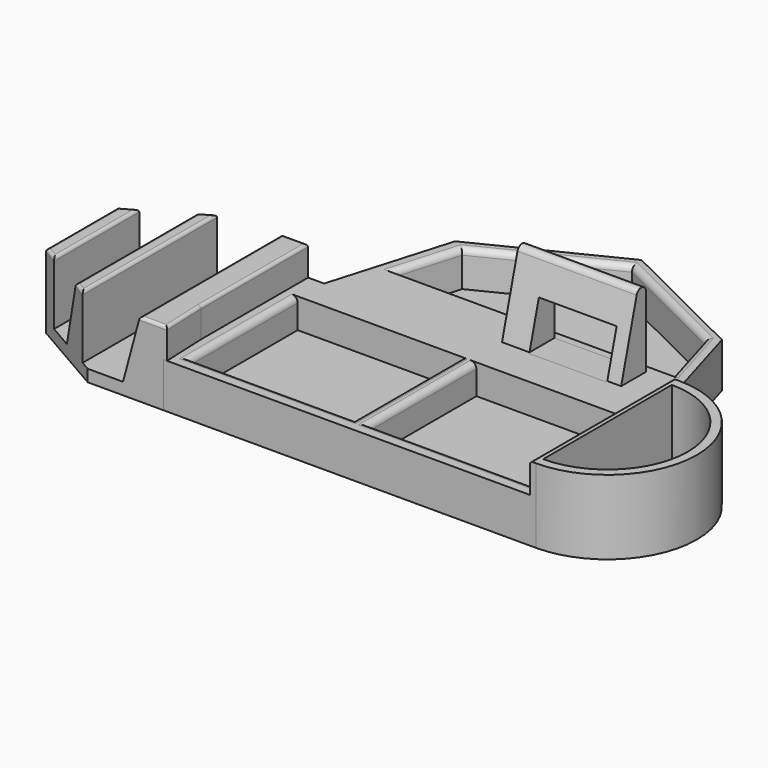
from build123d import *

# Parameters (mm, degrees)
SKETCH008_W     = 125
SKETCH008_H     = 60
PAD007_DEPTH    = 15
SKETCH009_W     = 115
SKETCH009_H     = 45
POCKET001_DEPTH = 10
SKETCH010_W     = 5
SKETCH010_H     = 45
PAD008_DEPTH    = 10
PAD009_DEPTH    = 15
PAD010_DEPTH    = 25
POCKET002_DEPTH = 122.392039
POCKET003_DEPTH = 62
PAD011_DEPTH    = 25
POCKET004_DEPTH = 22
FILLET006_R     = 1
FILLET007_R     = 1
FILLET008_R     = 1
FILLET009_R     = 1
FILLET010_R     = 2
PAD012_DEPTH    = 40
SKETCH019_W     = 26.11364
SKETCH019_H     = 14.637775
POCKET005_DEPTH = 11
POCKET006_DEPTH = 12
FILLET011_R     = 2
FILLET012_R     = 2


with BuildPart() as part:
    # Sketch008 → Pad007 (new body)
    with BuildSketch(Plane.XY):
        with Locations((97.753377, 76.478924)):
            Rectangle(SKETCH008_W, SKETCH008_H)
    extrude(amount=PAD007_DEPTH)

    # Sketch009 (on Face6 of Pad007) → Pocket001 (cut)
    with BuildSketch(Plane.XY.offset(15)):
        with Locations((97.753377, 73.978924)):
            Rectangle(SKETCH009_W, SKETCH009_H)
    extrude(amount=-POCKET001_DEPTH, mode=Mode.SUBTRACT)

    # Sketch010 (on Face11 of Pocket001) → Pad008 (join)
    with BuildSketch(Plane.XY.offset(5)):
        with Locations((97.753377, 73.978924)):
            Rectangle(SKETCH010_W, SKETCH010_H)
    extrude(amount=PAD008_DEPTH)

    # Sketch011 (on Face4 of Pad008) → Pad009 (join)
    with BuildSketch(Plane(origin=(0, 0, 0), x_dir=(1, 0, 0), z_dir=(0, 0, -1))):
        Polygon((40.253377, -103.478924), (155.253377, -103.478924), (142.543141, -146.646619), (97.753377, -168.869964), (52.963613, -146.646619), align=None)
    extrude(amount=-PAD009_DEPTH)

    # Sketch012 (on Face10 of Pad009) → Pad010 (join)
    with BuildSketch(Plane(origin=(0, 0, 0), x_dir=(1, 0, 0), z_dir=(0, 0, -1))):
        Polygon((35.753377, -91.478924), (35.753377, -61.478924), (36.388107, -46.478925), (9.764659, -46.478925), (-16.208147, -61.478924), (-16.208147, -91.478924), (9.764667, -106.478923), (35.753377, -106.478923), align=None)
    extrude(amount=-PAD010_DEPTH)

    # Sketch014 (on Face12 of Pad010) → Pocket002 (cut, through all)
    with BuildSketch(Plane.XZ.offset(-46.478925)):
        Polygon((21.625628, 4), (31.014697, 39.040485), (16.014696, 39.040485), (6.625628, 34.478157), (6.625628, 4), align=None)
    extrude(amount=-POCKET002_DEPTH, mode=Mode.SUBTRACT)

    # Sketch015 (on Face8 of Pocket002) → Pocket003 (cut)
    with BuildSketch(Plane.XZ.offset(-46.478925)):
        Polygon((2.97068, 27.121502), (-3.224708, 4), (-11.224708, 4), (-11.224708, 27.121502), align=None)
    extrude(amount=-POCKET003_DEPTH, mode=Mode.SUBTRACT)

    # Sketch016 (on Face2 of Pocket003) → Pad011 (join)
    with BuildSketch(Plane(origin=(0, 0, 0), x_dir=(1, 0, 0), z_dir=(0, 0, -1))):
        with BuildLine():
            ThreePointArc((160.253377, -106.478924), (190.253377, -76.478924), (160.253377, -46.478924))
            Line((160.253377, -46.478924), (158.253377, -46.478924))
            Line((158.253377, -46.478924), (158.253377, -106.478924))
            Line((158.253377, -106.478924), (160.253377, -106.478924))
        make_face()
    extrude(amount=-PAD011_DEPTH)

    # Sketch017 (on Face34 of Pad011) → Pocket004 (cut)
    with BuildSketch(Plane.XY.offset(25)):
        with BuildLine():
            ThreePointArc((160.253377, 49.478924), (187.253377, 76.478924), (160.253377, 103.478924))
            Line((160.253377, 103.478924), (160.253377, 49.478924))
        make_face()
    extrude(amount=-POCKET004_DEPTH, mode=Mode.SUBTRACT)

    # Fillet006
    fillet006_edges = [part.edges().sort_by_distance(p)[0] for p in [
        (158.253377, 76.478924, 25),
    ]]
    fillet(fillet006_edges, radius=FILLET006_R)

    # Fillet007
    fillet007_edges = [part.edges().sort_by_distance(p)[0] for p in [
        (31.502969, 106.478923, 25),
        (27.252561, 76.478924, 25),
        (31.820334, 46.478925, 25),
        (36.070742, 53.978925, 25),
        (35.753377, 83.978924, 25),
    ]]
    fillet(fillet007_edges, radius=FILLET007_R)

    # Fillet008
    fillet008_edges = [part.edges().sort_by_distance(p)[0] for p in [
        (2.402225, 76.478922, 25),
        (4.513926, 49.511365, 25),
        (6.625628, 76.478922, 25),
        (4.513926, 103.446479, 25),
    ]]
    fillet(fillet008_edges, radius=FILLET008_R)

    # Fillet009
    fillet009_edges = [part.edges().sort_by_distance(p)[0] for p in [
        (-16.208147, 76.478924, 25),
        (-13.716428, 60.039889, 25),
        (-11.224708, 76.478924, 25),
        (-13.716428, 92.917959, 25),
    ]]
    fillet(fillet009_edges, radius=FILLET009_R)

    # Fillet010
    fillet010_edges = [part.edges().sort_by_distance(p)[0] for p in [
        (127.753377, 51.478924, 15),
        (155.253377, 73.978924, 15),
        (100.253377, 73.978924, 15),
        (95.253377, 73.978924, 15),
        (67.753377, 51.478924, 15),
        (40.253377, 73.978924, 15),
    ]]
    fillet(fillet010_edges, radius=FILLET010_R)

    # Sketch018 (on DatumPlane) → Pad012 (join)
    with BuildSketch(Plane(origin=(138.35197, 76.478924, 12.5), x_dir=(0, 0, -1), z_dir=(1, 0, 0))):
        Polygon((0, 32.455163), (-41.423717, 43.554615), (0, 43.554615), align=None)
    extrude(amount=-PAD012_DEPTH)

    # Sketch019 (on Face25 of Pad012) → Pocket005 (cut)
    with BuildSketch(Plane(origin=(0, 120.033539, 0), x_dir=(-1, 0, 0), z_dir=(0, 1, 0))):
        with Locations((-120.645542, 22.318887)):
            Rectangle(SKETCH019_W, SKETCH019_H)
    extrude(amount=-POCKET005_DEPTH, mode=Mode.SUBTRACT)

    # Sketch020 (on Face47 of Pocket005) → Pocket006 (cut)
    with BuildSketch(Plane.XY.offset(15)):
        Polygon((50.450993, 122.512529), (145.055761, 122.512529), (138.543141, 144.6313), (97.753377, 164.869964), (56.963613, 144.6313), align=None)
    extrude(amount=-POCKET006_DEPTH, mode=Mode.SUBTRACT)

    # Fillet011
    fillet011_edges = [part.edges().sort_by_distance(p)[0] for p in [
        (53.707303, 133.571915, 15),
        (77.358495, 154.750632, 15),
        (118.148259, 154.750632, 15),
        (141.799451, 133.571915, 15),
    ]]
    fillet(fillet011_edges, radius=FILLET011_R)

    # Fillet012
    fillet012_edges = [part.edges().sort_by_distance(p)[0] for p in [
        (118.35197, 120.033539, 53.923717),
    ]]
    fillet(fillet012_edges, radius=FILLET012_R)


solid = part.part
